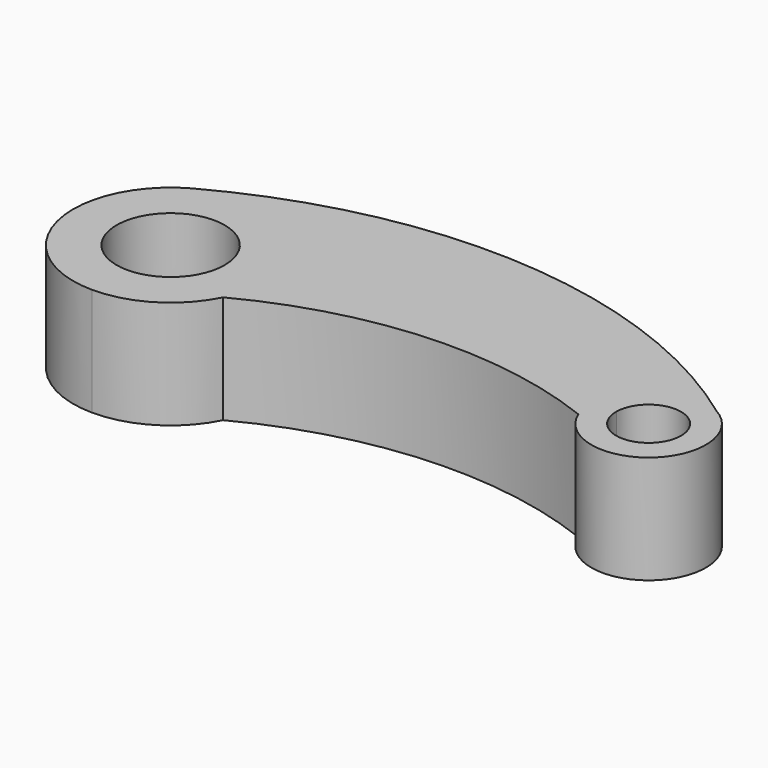
from build123d import *

# Parameters (mm, degrees)
F1_DEPTH = 25


with BuildPart() as f1:
    # F0 (on Top) → F1 (new body)
    with BuildSketch(Plane.XY):
        with BuildLine():
            ThreePointArc((-96.259889, 11.551633), (-107.253824, -13.713912), (-85.557076, -30.698184))
            ThreePointArc((-85.557076, -30.698184), (-73.633388, -27.360338), (-65.278143, -18.222207))
            ThreePointArc((-65.278143, -18.222207), (-26.44533, -7.50162), (13.338714, -13.83788))
            ThreePointArc((13.338714, -13.83788), (34.347501, -18.717609), (32.049824, 2.727707))
            ThreePointArc((32.049824, 2.727707), (-30.823069, 25.78084), (-96.259889, 11.551633))
        make_face()
        with BuildLine():
            ThreePointArc((-72.930115, -8.185484), (-72.930165, -8.220731), (-72.930314, -8.255977))
            ThreePointArc((-72.930314, -8.255977), (-76.641267, -17.074025), (-85.500608, -20.685286))
            ThreePointArc((-85.500608, -20.685286), (-94.243992, 0.678238), (-72.930115, -8.185484))
        make_face(mode=Mode.SUBTRACT)
        with BuildLine():
            ThreePointArc((18.077415, -8.769218), (25.598443, -1.311544), (33.077295, -8.811514))
            ThreePointArc((33.077295, -8.811514), (25.556147, -16.311484), (18.077415, -8.769218))
        make_face(mode=Mode.SUBTRACT)
    extrude(amount=F1_DEPTH)


solid = f1.part
